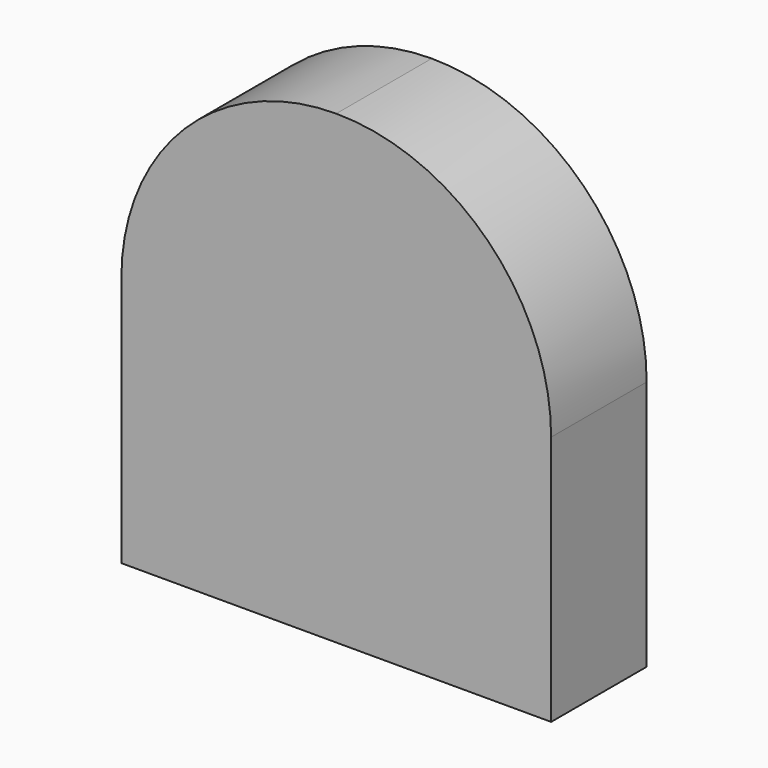
from build123d import *

# Parameters (mm, degrees)
F1_DEPTH = 10
F2_DEPTH = 7


with BuildPart() as f1:
    # F0 (on Front) → F1 (new body)
    with BuildSketch(Plane.XZ):
        with BuildLine():
            ThreePointArc((0, 34.5), (-10.606602, 30.106602), (-15, 19.5))
            Line((-15, 19.5), (0, 19.5))
            Line((0, 19.5), (15, 19.5))
            ThreePointArc((15, 19.5), (10.606602, 30.106602), (0, 34.5))
        make_face()
        with BuildLine():
            ThreePointArc((-18, 19.5), (-12.727922, 6.772078), (0, 1.5))
            ThreePointArc((0, 1.5), (12.727922, 6.772078), (18, 19.5))
            Line((18, 19.5), (15, 19.5))
            ThreePointArc((15, 19.5), (0, 4.5), (-15, 19.5))
            Line((-15, 19.5), (-18, 19.5))
        make_face()
        Polygon((0, 1.5), (-18, 1.5), (-18, -1.5), (18, -1.5), (18, 1.5), align=None)
        with BuildLine():
            ThreePointArc((18, 19.5), (12.727922, 6.772078), (0, 1.5))
            Line((0, 1.5), (18, 1.5))
            Line((18, 1.5), (18, 19.5))
        make_face()
        with BuildLine():
            Line((0, 19.5), (-15, 19.5))
            ThreePointArc((-15, 19.5), (0, 4.5), (15, 19.5))
            Line((15, 19.5), (0, 19.5))
        make_face()
        with BuildLine():
            Line((15, 19.5), (18, 19.5))
            ThreePointArc((18, 19.5), (12.727922, 32.227922), (0, 37.5))
            Line((0, 37.5), (0, 34.5))
            ThreePointArc((0, 34.5), (10.606602, 30.106602), (15, 19.5))
        make_face()
        with BuildLine():
            ThreePointArc((0, 37.5), (-12.727922, 32.227922), (-18, 19.5))
            Line((-18, 19.5), (-15, 19.5))
            ThreePointArc((-15, 19.5), (-10.606602, 30.106602), (0, 34.5))
            Line((0, 34.5), (0, 37.5))
        make_face()
        with BuildLine():
            Line((-18, 19.5), (-18, 1.5))
            Line((-18, 1.5), (0, 1.5))
            ThreePointArc((0, 1.5), (-12.727922, 6.772078), (-18, 19.5))
        make_face()
    extrude(amount=F1_DEPTH)

    # F0 (on Front) → F2 (cut)
    with BuildSketch(Plane.XZ):
        with BuildLine():
            Line((0, 19.5), (-15, 19.5))
            ThreePointArc((-15, 19.5), (0, 4.5), (15, 19.5))
            Line((15, 19.5), (0, 19.5))
        make_face()
        with BuildLine():
            ThreePointArc((0, 34.5), (-10.606602, 30.106602), (-15, 19.5))
            Line((-15, 19.5), (0, 19.5))
            Line((0, 19.5), (15, 19.5))
            ThreePointArc((15, 19.5), (10.606602, 30.106602), (0, 34.5))
        make_face()
    extrude(amount=F2_DEPTH, mode=Mode.SUBTRACT)


solid = f1.part
